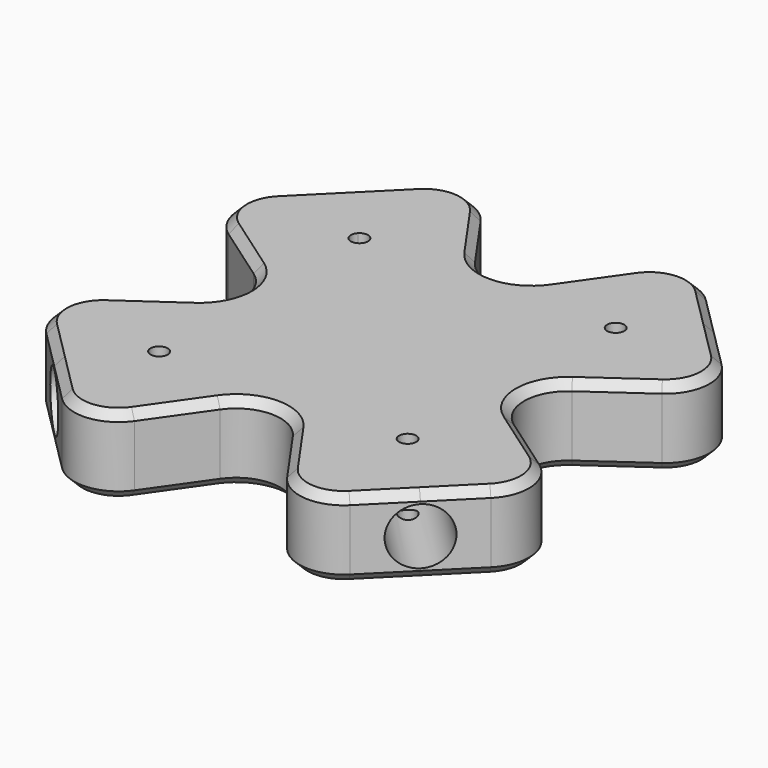
from build123d import *

# Parameters (mm, degrees)
F1_DEPTH  = 14
F2_R      = 5.1
F6_DEPTH  = 24
F7_R      = 8
F8_SIZE   = 1.5
F4_R      = 5.1
F3_R      = 5.1
F9_DEPTH  = 24
F10_DEPTH = 24
F5_R      = 5.1
F11_DEPTH = 24
F13_DEPTH = 25


with BuildPart() as f1:
    # F0 (on Top) → F1 (new body)
    with BuildSketch(Plane.XY):
        Polygon((-19.3769989072, 0), (-19.3769989072, 19.3769989072), (-33.0398305654, 33.0398305654), (-46.8350506358, 19.2446104951), (-43.6955482556, 19.2446104951), (-41.5616843481, 15.5486497909), align=None)
        Polygon((-19.3769989072, -19.3769989072), (0, 0), (-19.3769989072, 19.3769989072), (-19.3769989072, 0), align=None)
        Polygon((-33.0398305654, -33.0398305654), (-19.3769989072, -19.3769989072), (-19.3769989072, 0), (-41.5616843481, -15.5486497909), (-43.6955482556, -19.2446104951), (-46.8350506358, -19.2446104951), align=None)
        Polygon((0, -19.3769989072), (-19.3769989072, -19.3769989072), (-33.0398305654, -33.0398305654), (-19.2446104951, -46.8350506358), (-19.2446104951, -43.6955482556), (-15.5486497909, -41.5616843481), align=None)
        Polygon((33.0398305654, -33.0398305654), (19.3769989072, -19.3769989072), (0, -19.3769989072), (15.5486497909, -41.5616843481), (19.2446104951, -43.6955482556), (19.2446104951, -46.8350506358), align=None)
        Polygon((19.3769989072, 19.3769989072), (0, 0), (19.3769989072, -19.3769989072), (19.3769989072, 0), align=None)
        Polygon((19.3769989072, -19.3769989072), (0, 0), (-19.3769989072, -19.3769989072), (0, -19.3769989072), align=None)
        Polygon((-19.3769989072, 19.3769989072), (0, 0), (19.3769989072, 19.3769989072), (0, 19.3769989072), align=None)
        Polygon((33.0592844053, 33.0592844053), (19.3769989072, 19.3769989072), (19.3769989072, 0), (41.6966104702, 15.7823486896), (43.6955482556, 19.2446104951), (46.592988072, 19.2446104951), (46.7802135599, 19.3769989072), align=None)
        Polygon((0, 19.3769989072), (19.3769989072, 19.3769989072), (33.0592844053, 33.0592844053), (19.2446104951, 46.8350506358), (19.2446104951, 43.6955482556), (15.5486497909, 41.5616843481), align=None)
        Polygon((-33.0398305654, 33.0398305654), (-19.3769989072, 19.3769989072), (0, 19.3769989072), (-15.5486497909, 41.5616843481), (-19.2446104951, 43.6955482556), (-19.2446104951, 46.8350506358), align=None)
        Polygon((19.3769989072, 0), (19.3769989072, -19.3769989072), (33.0398305654, -33.0398305654), (46.8350506358, -19.2446104951), (43.6955482556, -19.2446104951), (41.5616843481, -15.5486497909), align=None)
        Polygon((-46.8350506358, 19.2446104951), (-41.5616843481, 15.5486497909), (-43.6955482556, 19.2446104951), align=None)
        Polygon((-19.2446104951, 43.6955482556), (-15.5486497909, 41.5616843481), (-19.2446104951, 46.8350506358), align=None)
        Polygon((19.2446104951, 43.6955482556), (19.2446104951, 46.8350506358), (15.5486497909, 41.5616843481), align=None)
        Polygon((43.6955482556, 19.2446104951), (41.6966104702, 15.7823486896), (46.592988072, 19.2446104951), align=None)
        Polygon((46.8350506358, -19.2446104951), (41.5616843481, -15.5486497909), (43.6955482556, -19.2446104951), align=None)
        Polygon((15.5486497909, -41.5616843481), (19.2446104951, -46.8350506358), (19.2446104951, -43.6955482556), align=None)
        Polygon((-19.2446104951, -46.8350506358), (-15.5486497909, -41.5616843481), (-19.2446104951, -43.6955482556), align=None)
        Polygon((-41.5616843481, -15.5486497909), (-46.8350506358, -19.2446104951), (-43.6955482556, -19.2446104951), align=None)
    extrude(amount=F1_DEPTH)

    # F2 (on face) → F6 (cut)
    with BuildSketch(Plane(origin=(-33.0398305654, -33.0398305654, 0), x_dir=(0.7071067812, -0.7071067812, 0), z_dir=(-0.7071067812, -0.7071067812, 0))):
        with Locations((0, 7)):
            Circle(F2_R)
    extrude(amount=-F6_DEPTH, mode=Mode.SUBTRACT)

    # F7
    f7_edges = [f1.edges().sort_by_distance(p)[0] for p in [
        (-46.835051, -19.24461, 7),
        (-19.376999, 0, 7),
        (-46.835051, 19.24461, 7),
        (-19.24461, 46.835051, 7),
        (0, 19.376999, 7),
        (19.24461, 46.835051, 7),
        (46.780214, 19.376999, 7),
        (19.376999, 0, 7),
        (46.835051, -19.24461, 7),
        (19.24461, -46.835051, 7),
        (0, -19.376999, 7),
        (-19.24461, -46.835051, 7),
    ]]
    fillet(f7_edges, radius=F7_R)

    # F8
    f8_edges = [f1.edges().sort_by_distance(p)[0] for p in [
        (-19.63081, -42.409389, 14),
        (-33.877681, 10.163139, 14),
        (10.167051, 33.883263, 14),
        (33.039831, -33.039831, 14),
        (19.63081, -42.409389, 0),
        (25.274381, 0.01229, 0),
        (42.373812, 19.749137, 0),
    ]]
    chamfer(f8_edges, length=F8_SIZE)

    # F4 (on face) + F3 (on face) → F9 (cut)
    with BuildSketch(Plane(origin=(33.0125989828, 33.1058383427, 0), x_dir=(-0.7081032299, 0.7061089263, 0), z_dir=(0.7061089263, 0.7081032299, 0))):
        with Locations((0.0002640227, 7)):
            Circle(F4_R)
    with BuildSketch(Plane(origin=(33.0398305654, -33.0398305654, 0), x_dir=(0.7071067812, 0.7071067812, 0), z_dir=(0.7071067812, -0.7071067812, 0))):
        with Locations((0, 7)):
            Circle(F3_R)
    extrude(amount=-F9_DEPTH, dir=(0.7061089263, 0.7081032299, 0), mode=Mode.SUBTRACT)

    # F3 (on face) → F10 (cut)
    with BuildSketch(Plane(origin=(33.0398305654, -33.0398305654, 0), x_dir=(0.7071067812, 0.7071067812, 0), z_dir=(0.7071067812, -0.7071067812, 0))):
        with Locations((0, 7)):
            Circle(F3_R)
    extrude(amount=-F10_DEPTH, mode=Mode.SUBTRACT)

    # F5 (on face) → F11 (cut)
    with BuildSketch(Plane(origin=(-33.0398305654, 33.0398305654, 0), x_dir=(-0.7071067812, -0.7071067812, 0), z_dir=(-0.7071067812, 0.7071067812, 0))):
        with Locations((0, 7)):
            Circle(F5_R)
    extrude(amount=-F11_DEPTH, mode=Mode.SUBTRACT)

    # F12 (on face) → F13 (cut)
    with BuildSketch(Plane.XY.offset(14)):
        with BuildLine():
            ThreePointArc((-23.1756909679, 23.1756909679), (-22.6728347772, 20.6476621816), (-20.529675457, 22.079675457))
            ThreePointArc((-20.529675457, 22.079675457), (-21.4865161369, 23.5116887324), (-23.1756909679, 23.1756909679))
        make_face()
        with BuildLine():
            ThreePointArc((24.2951667251, 24.3765905068), (21.7671379389, 22.6874156758), (24.7491512142, 23.280574996))
            ThreePointArc((24.7491512142, 23.280574996), (24.6311644896, 23.8737343162), (24.2951667251, 24.3765905068))
        make_face()
        with BuildLine():
            ThreePointArc((22.5577053556, -22.5577053556), (22.8937031201, -22.0548491649), (23.0116898447, -21.4616898447))
            ThreePointArc((23.0116898447, -21.4616898447), (20.0296765693, -20.8685305246), (22.5577053556, -22.5577053556))
        make_face()
        with BuildLine():
            ThreePointArc((-23.6233907693, -23.6233907693), (-21.9342159383, -23.9593885339), (-20.9773752585, -22.5273752585))
            ThreePointArc((-20.9773752585, -22.5273752585), (-23.1205345787, -21.0953619831), (-23.6233907693, -23.6233907693))
        make_face()
    extrude(amount=-F13_DEPTH, mode=Mode.SUBTRACT)


solid = f1.part
